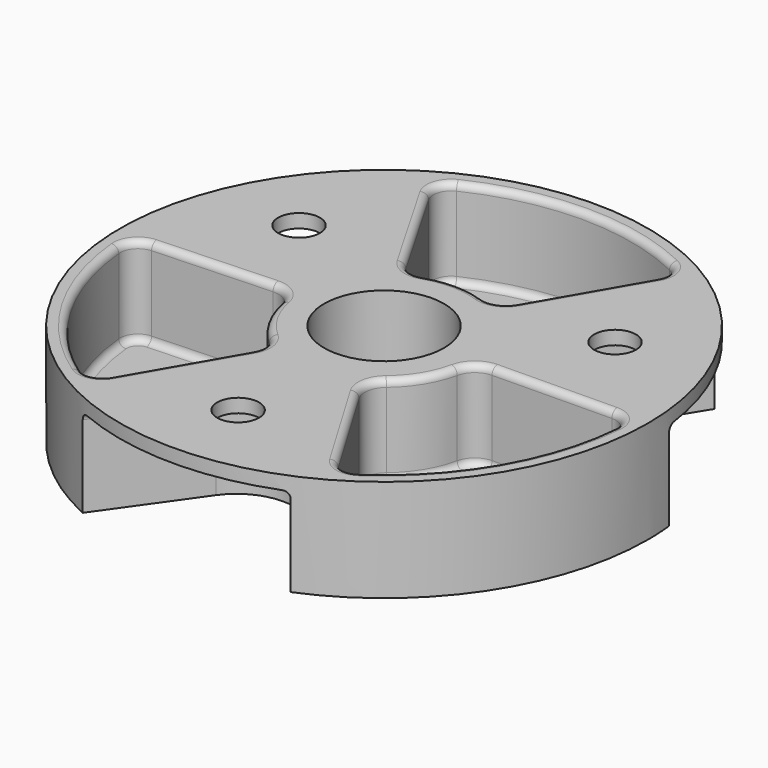
from build123d import *

# Parameters (mm, degrees)
SKETCH_R        = 38.671084
PAD_DEPTH       = 15
SKETCH001_R     = 3.06241
POCKET_DEPTH    = 15.001
POCKET001_DEPTH = 13
SKETCH004_R     = 8.781203
POCKET002_DEPTH = 15.001
POCKET003_DEPTH = 18
FILLET_R        = 1
FILLET001_R     = 1
FILLET002_R     = 1
FILLET003_R     = 1
FILLET004_R     = 1
FILLET005_R     = 1
FILLET006_R     = 1
FILLET007_R     = 1
FILLET008_R     = 1


with BuildPart() as part:
    # Sketch → Pad (new body)
    with BuildSketch(Plane.XY):
        Circle(SKETCH_R)
    extrude(amount=PAD_DEPTH)

    # Sketch001 (on Face3 of Pad) → Pocket (cut, through all)
    with BuildSketch(Plane.XY.offset(15)):
        with Locations((-23.150006, 13.365662)):
            Circle(SKETCH001_R)
        with Locations((0, 26.731325)):
            Circle(SKETCH001_R)
        with Locations((23.150006, 13.365662)):
            Circle(SKETCH001_R)
        with Locations((23.150006, -13.365662)):
            Circle(SKETCH001_R)
        with Locations((0, -26.731325)):
            Circle(SKETCH001_R)
        with Locations((-23.150006, -13.365662)):
            Circle(SKETCH001_R)
    extrude(amount=-POCKET_DEPTH, mode=Mode.SUBTRACT)

    # Sketch002 (on Face3 of Pocket) → Pocket001 (cut)
    with BuildSketch(Plane.XY.offset(15)):
        with BuildLine():
            ThreePointArc((-13.107156, -2.452557), (-11.591059, -6.592415), (-8.807924, -10.011646))
            ThreePointArc((-8.148663, -14.024398), (-7.761292, -11.900225), (-8.807924, -10.011646))
            Line((-8.148663, -14.024398), (-16.801178, -29.010993))
            ThreePointArc((-20.568892, -29.861485), (-18.498897, -30.260838), (-16.801178, -29.010993))
            ThreePointArc((-36.094141, -3.464185), (-31.255066, -18.382285), (-20.568892, -29.861485))
            ThreePointArc((-33.591908, -0.586814), (-35.461033, -1.488064), (-36.094141, -3.464185))
            Line((-16.400272, 0.162494), (-33.591908, -0.586814))
            ThreePointArc((-13.107156, -2.452557), (-14.265518, -0.53025), (-16.400272, 0.162494))
        make_face()
        with BuildLine():
            Line((8.149163, 14.042588), (16.796851, 29.020822))
            ThreePointArc((16.796851, 29.020822), (17.031327, 31.112986), (15.655261, 32.706275))
            ThreePointArc((15.655261, 32.706275), (0.046958, 36.25997), (-15.570498, 32.746713))
            ThreePointArc((-15.570498, 32.746713), (-16.9517, 31.153743), (-16.718232, 29.058329))
            Line((-8.065355, 14.071105), (-16.718232, 29.058329))
            ThreePointArc((-8.065355, 14.071105), (-6.420007, 12.673755), (-4.261703, 12.635286))
            ThreePointArc((4.329259, 12.612299), (0.03568, 13.33459), (-4.261703, 12.635286))
            ThreePointArc((4.329259, 12.612299), (6.495781, 12.642217), (8.149163, 14.042588))
        make_face()
        with BuildLine():
            Line((16.111667, -0.358575), (33.483412, -0.130577))
            ThreePointArc((36.137772, -2.974731), (35.439714, -0.965514), (33.483412, -0.130577))
            ThreePointArc((20.373681, -29.995012), (31.319482, -18.272319), (36.137772, -2.974731))
            ThreePointArc((16.637564, -29.164603), (18.326305, -30.386581), (20.373681, -29.995012))
            Line((16.637564, -29.164603), (7.826092, -14.354994))
            ThreePointArc((8.530748, -10.24885), (7.421213, -12.171977), (7.826092, -14.354994))
            ThreePointArc((8.530748, -10.24885), (11.389217, -6.935294), (13.021063, -2.874805))
            ThreePointArc((16.111667, -0.358575), (14.128255, -1.078574), (13.021063, -2.874805))
        make_face()
    extrude(amount=-POCKET001_DEPTH, mode=Mode.SUBTRACT)

    # Sketch004 (on Face3 of Pocket001) → Pocket002 (cut, through all)
    with BuildSketch(Plane.XY.offset(15)):
        Circle(SKETCH004_R)
    extrude(amount=-POCKET002_DEPTH, mode=Mode.SUBTRACT)

    # Sketch005 (on Face3 of Pad) → Pocket003 (cut)
    with BuildSketch(Plane.XY.offset(13)):
        with BuildLine():
            ThreePointArc((-23.61803, 4.974608), (-16.159759, 9.381485), (-16.421718, 18.040454))
            Line((-16.421718, 18.040454), (-28.422843, 37.016694))
            Line((-28.422843, 37.016694), (-46.404134, 4.974608))
            Line((-23.61803, 4.974608), (-46.404134, 4.974608))
        make_face()
        with BuildLine():
            ThreePointArc((16.80314, 17.745391), (16.324588, 9.093885), (23.672956, 4.502693))
            Line((23.672956, 4.502693), (46.50349, 3.939897))
            Line((28.609982, 36.87242), (46.50349, 3.939897))
            Line((16.80314, 17.745391), (28.609982, 36.87242))
        make_face()
        with BuildLine():
            ThreePointArc((7.508373, -22.938666), (0.52788, -18.692761), (-6.813599, -22.278521))
            Line((-6.813599, -22.278521), (-20.697716, -41.890034))
            Line((-20.697716, -41.890034), (18.908171, -42.668804))
            Line((7.508373, -22.938666), (18.908171, -42.668804))
        make_face()
    extrude(amount=-POCKET003_DEPTH, mode=Mode.SUBTRACT)

    # Fillet
    fillet_edges = [part.edges().sort_by_distance(p)[0] for p in [
        (-24.99609, -0.21216, 15),
        (-14.265518, -0.53025, 15),
        (-11.591059, -6.592415, 15),
        (-7.761292, -11.900225, 15),
        (-12.47492, -21.517696, 15),
        (-18.498897, -30.260838, 15),
        (-31.255066, -18.382285, 15),
        (-35.461033, -1.488064, 15),
    ]]
    fillet(fillet_edges, radius=FILLET_R)

    # Fillet001
    fillet001_edges = [part.edges().sort_by_distance(p)[0] for p in [
        (11.389217, -6.935294, 15),
        (14.128255, -1.078574, 15),
        (24.797539, -0.244576, 15),
        (35.439714, -0.965514, 15),
        (31.319482, -18.272319, 15),
        (18.326305, -30.386581, 15),
        (12.231828, -21.759799, 15),
        (7.421213, -12.171977, 15),
    ]]
    fillet(fillet001_edges, radius=FILLET001_R)

    # Fillet002
    fillet002_edges = [part.edges().sort_by_distance(p)[0] for p in [
        (0.046958, 36.25997, 15),
        (-16.9517, 31.153743, 15),
        (-12.391794, 21.564717, 15),
        (-6.420007, 12.673755, 15),
        (0.03568, 13.33459, 15),
        (6.495781, 12.642217, 15),
        (12.473007, 21.531705, 15),
        (17.031327, 31.112986, 15),
    ]]
    fillet(fillet002_edges, radius=FILLET002_R)

    # Fillet003
    fillet003_edges = [part.edges().sort_by_distance(p)[0] for p in [
        (-12.391794, 21.564717, 2),
        (-16.9517, 31.153743, 2),
        (0.046958, 36.25997, 2),
        (17.031327, 31.112986, 2),
        (6.495781, 12.642217, 2),
        (12.473007, 21.531705, 2),
        (0.03568, 13.33459, 2),
        (-6.420007, 12.673755, 2),
    ]]
    fillet(fillet003_edges, radius=FILLET003_R)

    # Fillet004
    fillet004_edges = [part.edges().sort_by_distance(p)[0] for p in [
        (-24.99609, -0.21216, 2),
        (-14.265518, -0.53025, 2),
        (-11.591059, -6.592415, 2),
        (-7.761292, -11.900225, 2),
        (-12.47492, -21.517696, 2),
        (-18.498897, -30.260838, 2),
        (-31.255066, -18.382285, 2),
        (-35.461033, -1.488064, 2),
    ]]
    fillet(fillet004_edges, radius=FILLET004_R)

    # Fillet005
    fillet005_edges = [part.edges().sort_by_distance(p)[0] for p in [
        (11.389217, -6.935294, 2),
        (14.128255, -1.078574, 2),
        (24.797539, -0.244576, 2),
        (12.231828, -21.759799, 2),
        (7.421213, -12.171977, 2),
        (18.326305, -30.386581, 2),
        (31.319482, -18.272319, 2),
        (35.439714, -0.965514, 2),
    ]]
    fillet(fillet005_edges, radius=FILLET005_R)

    # Fillet006
    fillet006_edges = [part.edges().sort_by_distance(p)[0] for p in [
        (-11.393786, -28.7481, 13),
        (0.52788, -18.692761, 13),
        (11.193396, -29.3165, 13),
    ]]
    fillet(fillet006_edges, radius=FILLET006_R)

    # Fillet007
    fillet007_edges = [part.edges().sort_by_distance(p)[0] for p in [
        (-30.983908, 4.974608, 13),
        (-16.159759, 9.381485, 13),
        (-20.273821, 24.131419, 13),
    ]]
    fillet(fillet007_edges, radius=FILLET007_R)

    # Fillet008
    fillet008_edges = [part.edges().sort_by_distance(p)[0] for p in [
        (31.06098, 4.320571, 13),
        (16.324588, 9.093885, 13),
        (20.591145, 23.881941, 13),
    ]]
    fillet(fillet008_edges, radius=FILLET008_R)


solid = part.part
